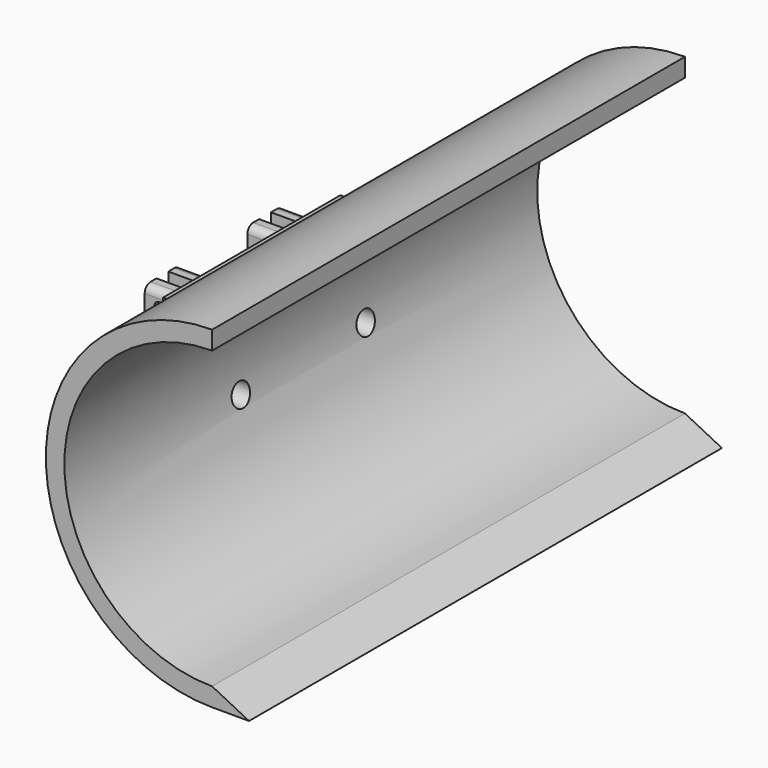
from build123d import *

# Parameters (mm, degrees)
F1_DEPTH = 101.6
F2_DEPTH = 38.1
F3_R     = 3.86409
F4_DEPTH = 25.4
F3_W     = 5.08
F3_H     = 10.050485
F5_DEPTH = 12.7
F6_R     = 2.54
F7_R     = 1.524
F8_DEPTH = 101.6


with BuildPart() as f1:
    # F0 (on Front) → F1 (new body, symmetric)
    with BuildSketch(Plane.XZ):
        with BuildLine():
            ThreePointArc((0, -50.8), (-50.8, 0), (0, 50.8))
            Line((0, 50.8), (0, 57.15))
            ThreePointArc((0, 57.15), (-32.995568, 46.66278), (-53.881537, 19.05))
            ThreePointArc((-53.881537, 19.05), (-57.15, 0), (-53.881537, -19.05))
            ThreePointArc((-53.881537, -19.05), (-32.995568, -46.66278), (0, -57.15))
            Line((0, -57.15), (12.7, -57.15))
            Line((12.7, -57.15), (0, -50.8))
        make_face()
    extrude(amount=F1_DEPTH, both=True)

    # F0 (on Front) → F2 (join, symmetric)
    with BuildSketch(Plane.XZ):
        with BuildLine():
            ThreePointArc((-53.881537, -19.05), (-57.15, 0), (-53.881537, 19.05))
            Line((-53.881537, 19.05), (-67.661227, 19.05))
            Line((-67.661227, 19.05), (-67.661227, -19.05))
            Line((-67.661227, -19.05), (-53.881537, -19.05))
        make_face()
    extrude(amount=F2_DEPTH, both=True)

    # F3 (on face) → F4 (cut)
    with BuildSketch(Plane(origin=(-67.661227, 0, 0), x_dir=(0, -1, 0), z_dir=(-1, 0, 0))):
        with Locations((-26.825511, -9.129036)):
            Circle(F3_R)
        with Locations((26.825511, -9.129036)):
            Circle(F3_R)
    extrude(amount=-F4_DEPTH, mode=Mode.SUBTRACT)

    # F3 (on face) → F5 (join)
    with BuildSketch(Plane(origin=(-67.661227, 0, 0), x_dir=(0, -1, 0), z_dir=(-1, 0, 0))):
        with Locations((-26.67489, 10.3995)):
            Rectangle(F3_W, F3_H)
        with Locations((-16.51489, 10.3995)):
            Rectangle(F3_W, F3_H)
        with Locations((17.42751, 10.3995)):
            Rectangle(F3_W, F3_H)
        with Locations((27.58751, 10.3995)):
            Rectangle(F3_W, F3_H)
    extrude(amount=F5_DEPTH)

    # F6
    f6_edges = [f1.edges().sort_by_distance(p)[0] for p in [
        (-74.011227, 29.21489, 15.424743),
        (-74.011227, 29.21489, 5.374258),
        (-74.011227, 13.97489, 5.374258),
        (-74.011227, 13.97489, 15.424743),
        (-74.011227, -14.88751, 5.374258),
        (-74.011227, -30.12751, 5.374258),
        (-74.011227, -30.12751, 15.424743),
        (-74.011227, -14.88751, 15.424743),
    ]]
    fillet(f6_edges, radius=F6_R)

    # F7 (on face) → F8 (cut)
    with BuildSketch(Plane.XZ.offset(30.12751)):
        with Locations((-75.416334, 10.399501)):
            Circle(F7_R)
    extrude(amount=-F8_DEPTH, mode=Mode.SUBTRACT)


solid = f1.part
